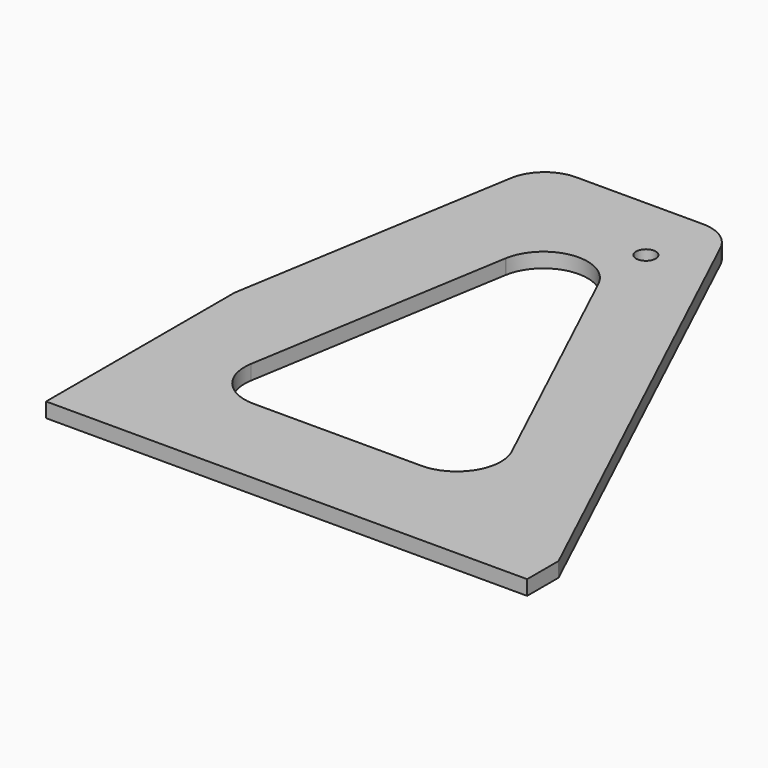
from build123d import *

# Parameters (mm, degrees)
F1_DEPTH = 9.525


with BuildPart() as f1:
    # F0 (on Top) → F1 (new body)
    with BuildSketch(Plane.XY):
        with BuildLine():
            Line((0, 152.4), (0, 0))
            Line((0, 0), (311.15, 0))
            Line((311.15, 0), (311.15, 25.4))
            Line((311.15, 25.4), (160.901719, 344.192777))
            ThreePointArc((160.901719, 344.192777), (162.712271, 338.912413), (163.325663, 333.364072))
            ThreePointArc((163.325663, 333.364072), (155.552888, 315.076345), (136.99173, 307.981248))
            ThreePointArc((136.99173, 307.981248), (136.059369, 307.981167), (135.137047, 308.117615))
            ThreePointArc((135.137047, 308.117615), (112.564078, 334.760493), (137.925663, 358.764072))
            Line((137.925663, 358.764072), (55.782063, 358.764072))
            ThreePointArc((55.782063, 358.764072), (73.742576, 351.324585), (81.182063, 333.364072))
            ThreePointArc((81.182063, 333.364072), (53.695638, 308.04991), (30.724833, 337.522821))
            Line((30.724833, 337.522821), (0, 152.4))
        make_face()
        with BuildLine():
            ThreePointArc((83.451245, 267.376207), (107.748281, 290.885778), (137.465097, 274.762605))
            Line((137.465097, 274.762605), (217.824916, 104.257293))
            ThreePointArc((217.824916, 104.257293), (219.861787, 98.316884), (220.551853, 92.075))
            ThreePointArc((220.551853, 92.075), (212.182429, 71.869424), (191.976853, 63.5))
            Line((191.976853, 63.5), (83.315653, 63.5))
            ThreePointArc((83.315653, 63.5), (61.487623, 73.641806), (55.150963, 96.861752))
            Line((55.150963, 96.861752), (83.410288, 267.129432))
            ThreePointArc((83.410288, 267.129432), (83.430497, 267.252864), (83.451245, 267.376207))
        make_face(mode=Mode.SUBTRACT)
        with BuildLine():
            ThreePointArc((55.782063, 358.764072), (39.357573, 352.739214), (30.724833, 337.522821))
            ThreePointArc((30.724833, 337.522821), (53.695638, 308.04991), (81.182063, 333.364072))
            ThreePointArc((81.182063, 333.364072), (73.742576, 351.324585), (55.782063, 358.764072))
        make_face()
        with BuildLine():
            ThreePointArc((163.325663, 333.364072), (162.712271, 338.912413), (160.901719, 344.192777))
            ThreePointArc((160.901719, 344.192777), (151.529172, 354.81412), (137.925663, 358.764072))
            ThreePointArc((137.925663, 358.764072), (112.564078, 334.760493), (135.137047, 308.117615))
            ThreePointArc((135.137047, 308.117615), (132.555806, 319.270684), (142.875, 314.314072))
            ThreePointArc((142.875, 314.314072), (141.177216, 309.992107), (136.99173, 307.981248))
            ThreePointArc((136.99173, 307.981248), (155.552888, 315.076345), (163.325663, 333.364072))
        make_face()
    extrude(amount=F1_DEPTH)


solid = f1.part
